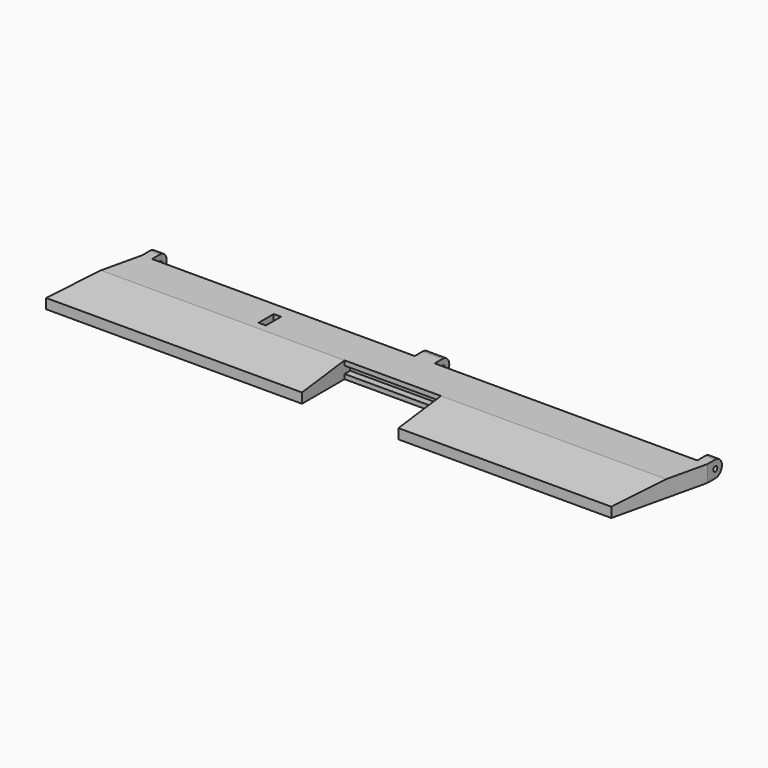
from build123d import *

# Parameters (mm, degrees)
PAD_DEPTH       = 5
SKETCH001_W     = 29
SKETCH001_H     = 16
POCKET_DEPTH    = 5
SKETCH002_W     = 29
SKETCH002_H     = 2.2
POCKET001_DEPTH = 2.1
POCKET002_DEPTH = 100
POCKET003_DEPTH = 100
SKETCH006_W     = 3
SKETCH006_H     = 5
SKETCH006_W_2   = 6
PAD001_DEPTH    = 5.5
SKETCH008_W     = 2.2
SKETCH008_H     = 5.7
POCKET005_DEPTH = 5
SKETCH009_R     = 0.75
POCKET006_DEPTH = 200
FILLET_R        = 2.49


with BuildPart() as part:
    # Sketch → Pad (new body)
    with BuildSketch(Plane.XY):
        Polygon((-85, 14), (85, 14), (78.535691, -14), (-91.464309, -14), align=None)
    extrude(amount=PAD_DEPTH)

    # Sketch001 (on Face6 of Pad) → Pocket (cut)
    with BuildSketch(Plane.XY.offset(5)):
        with Locations((0, -6)):
            Rectangle(SKETCH001_W, SKETCH001_H)
    extrude(amount=-POCKET_DEPTH, mode=Mode.SUBTRACT)

    # Sketch002 (on Face9 of Pocket) → Pocket001 (cut)
    with BuildSketch(Plane.XZ.offset(-2)):
        with Locations((0, 2.5)):
            Rectangle(SKETCH002_W, SKETCH002_H)
    extrude(amount=-POCKET001_DEPTH, mode=Mode.SUBTRACT)

    # Sketch004 (on Face8 of Pocket001) → Pocket002 (cut)
    with BuildSketch(Plane.YZ.offset(-14.5)):
        Polygon((-14, 5), (2, 5), (-14, 3), align=None)
    extrude(amount=-POCKET002_DEPTH, mode=Mode.SUBTRACT)

    # Sketch005 (on Face11 of Pocket002) → Pocket003 (cut)
    with BuildSketch(Plane(origin=(14.5, 0, 0), x_dir=(0, -1, 0), z_dir=(-1, 0, 0))):
        Polygon((-2, 5), (14, 5), (14, 3), align=None)
    extrude(amount=-POCKET003_DEPTH, mode=Mode.SUBTRACT)

    # Sketch006 (on Face1 of Pocket003) → Pad001 (join)
    with BuildSketch(Plane(origin=(0, 14, 0), x_dir=(-1, 0, 0), z_dir=(0, 1, 0))):
        with Locations((83.5, 2.5)):
            Rectangle(SKETCH006_W, SKETCH006_H)
        with Locations((-83.5, 2.5)):
            Rectangle(SKETCH006_W, SKETCH006_H)
        with Locations((0, 2.5)):
            Rectangle(SKETCH006_W_2, SKETCH006_H)
    extrude(amount=PAD001_DEPTH)

    # Sketch008 (on Face5 of Pocket001) → Pocket005 (cut)
    with BuildSketch(Plane.XY.offset(5)):
        with Locations((-41.1, 7.15)):
            Rectangle(SKETCH008_W, SKETCH008_H)
    extrude(amount=-POCKET005_DEPTH, mode=Mode.SUBTRACT)

    # Sketch009 (on Face35 of Pocket005) → Pocket006 (cut)
    with BuildSketch(Plane.YZ.offset(85)):
        with Locations((17, 2.5)):
            Circle(SKETCH009_R)
    extrude(amount=-POCKET006_DEPTH, mode=Mode.SUBTRACT)

    # Fillet
    fillet_edges = [part.edges().sort_by_distance(p)[0] for p in [
        (83.5, 19.5, 5),
        (83.5, 19.5, 0),
        (0, 19.5, 5),
        (0, 19.5, 0),
        (-83.5, 19.5, 5),
        (-83.5, 19.5, 0),
    ]]
    fillet(fillet_edges, radius=FILLET_R)


solid = part.part
